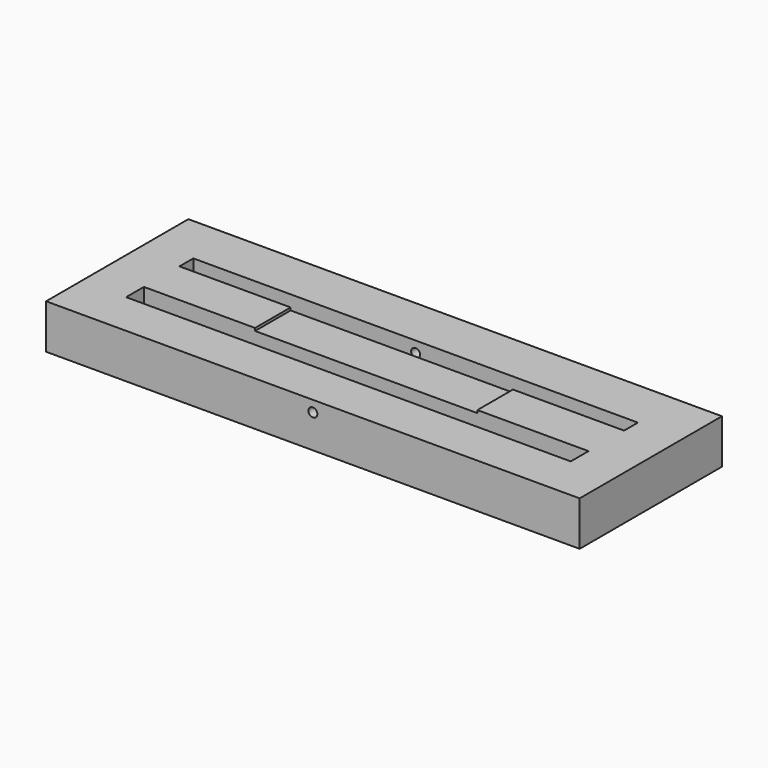
from build123d import *

# Parameters (mm, degrees)
F0_W      = 304.8
F0_H      = 101.6
F1_DEPTH  = 25.4
F2_W      = 127
F2_H      = 25.4
F3_DEPTH  = 1.524
F4_W      = 254
F4_H      = 9.8806431205
F5_DEPTH  = 12.7
F7_DEPTH  = 12.7
F9_D      = 5.1054
F9_DEPTH  = 25.4
F9_TIP    = 1.5338169022
F11_D     = 5.1054
F11_DEPTH = 28.448
F11_TIP   = 1.5338169022


with BuildPart() as f1:
    # F0 (on Top) → F1 (new body)
    with BuildSketch(Plane.XY):
        with Locations((104.9140337646, 27.7402723759)):
            Rectangle(F0_W, F0_H)
    extrude(amount=F1_DEPTH)

    # F2 (on face) → F3 (cut)
    with BuildSketch(Plane.XY.offset(25.4)):
        with Locations((104.9140337646, 27.7402723759)):
            Rectangle(F2_W, F2_H)
    extrude(amount=-F3_DEPTH, mode=Mode.SUBTRACT)

    # F4 (on face) → F5 (cut)
    with BuildSketch(Plane.XY.offset(25.4)):
        with Locations((104.9140337646, 45.3805939362)):
            Rectangle(F4_W, F4_H)
    extrude(amount=-F5_DEPTH, mode=Mode.SUBTRACT)

    # F6 (on face) → F7 (cut)
    with BuildSketch(Plane.XY.offset(25.4)):
        Polygon((41.4140337646, 15.0402723759), (-22.0859662354, 15.0402723759), (-22.0859662354, 2.3402723759), (231.9140337646, 2.3402723759), (231.9140337646, 15.0402723759), (168.4140337646, 15.0402723759), align=None)
    extrude(amount=-F7_DEPTH, mode=Mode.SUBTRACT)

    # F9
    with Locations(Plane.XZ.offset(23.0597276241)):
        with Locations((104.9140337646, 19.05)):
            Hole(F9_D / 2, depth=F9_DEPTH)
            with Locations((0, 0, -(F9_DEPTH + F9_TIP / 2))):  # 118° drill point
                Cone(0, F9_D / 2, F9_TIP, mode=Mode.SUBTRACT)

    # F11
    with Locations(Plane(origin=(0, 78.5402723759, 0), x_dir=(-1, 0, 0), z_dir=(0, 1, 0))):
        with Locations((-104.9140337646, 19.05)):
            Hole(F11_D / 2, depth=F11_DEPTH)
            with Locations((0, 0, -(F11_DEPTH + F11_TIP / 2))):  # 118° drill point
                Cone(0, F11_D / 2, F11_TIP, mode=Mode.SUBTRACT)


solid = f1.part
